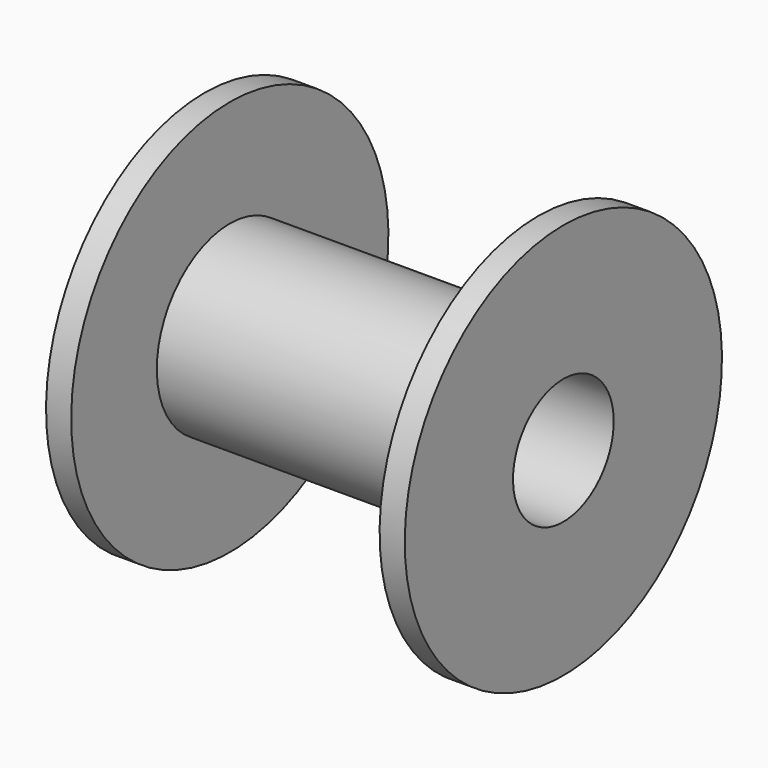
from build123d import *


with BuildPart() as f1:
    # F0 (on Front) → F1 (revolve)
    with BuildSketch(Plane.XZ):
        Polygon((-28.5, 10), (0, 10), (0, 14.5), (-24.5, 14.5), (-24.5, 31.5), (-28.5, 31.5), align=None)
        Polygon((0, 14.5), (0, 10), (28.5, 10), (28.5, 31.5), (24.5, 31.5), (24.5, 14.5), align=None)
    revolve(axis=Axis((1.835985, 0, 0), (1, 0, 0)))


solid = f1.part
